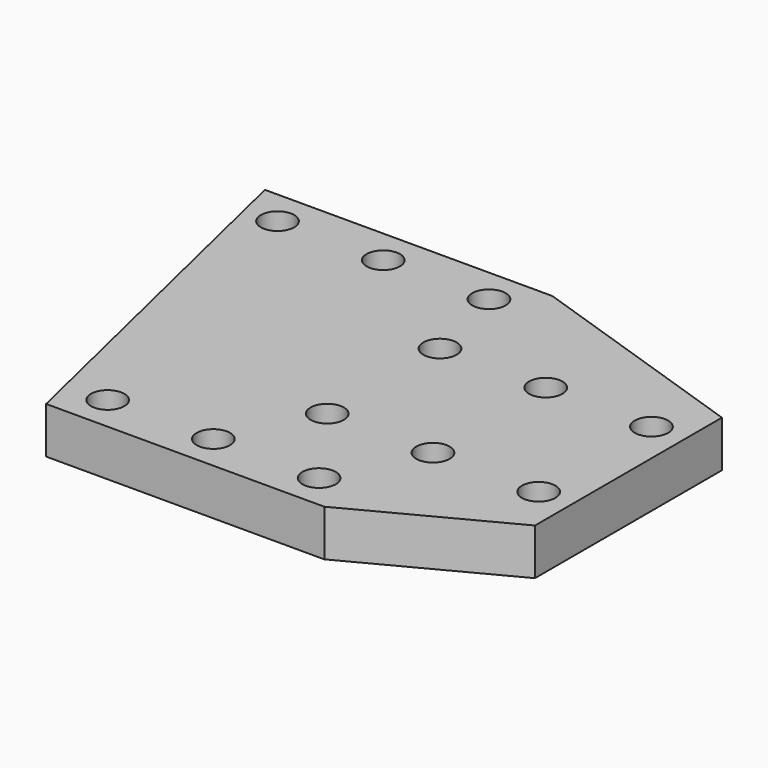
from build123d import *

# Parameters (mm, degrees)
F0_R     = 9
F1_DEPTH = 25


with BuildPart() as f1:
    # F0 (on Top) → F1 (new body)
    with BuildSketch(Plane.XY):
        Polygon((-230, 0), (-80, 0), (0, 42), (0, 168), (-125, 210), (-280, 210), align=None)
        with Locations((-212, 19)):
            Circle(F0_R, mode=Mode.SUBTRACT)
        with Locations((-155, 19)):
            Circle(F0_R, mode=Mode.SUBTRACT)
        with Locations((-98, 19)):
            Circle(F0_R, mode=Mode.SUBTRACT)
        with Locations((-132, 67)):
            Circle(F0_R, mode=Mode.SUBTRACT)
        with Locations((-75, 67)):
            Circle(F0_R, mode=Mode.SUBTRACT)
        with Locations((-18, 67)):
            Circle(F0_R, mode=Mode.SUBTRACT)
        with Locations((-258, 191)):
            Circle(F0_R, mode=Mode.SUBTRACT)
        with Locations((-201, 191)):
            Circle(F0_R, mode=Mode.SUBTRACT)
        with Locations((-144, 191)):
            Circle(F0_R, mode=Mode.SUBTRACT)
        with Locations((-132, 143)):
            Circle(F0_R, mode=Mode.SUBTRACT)
        with Locations((-75, 143)):
            Circle(F0_R, mode=Mode.SUBTRACT)
        with Locations((-18, 143)):
            Circle(F0_R, mode=Mode.SUBTRACT)
    extrude(amount=F1_DEPTH)


solid = f1.part
